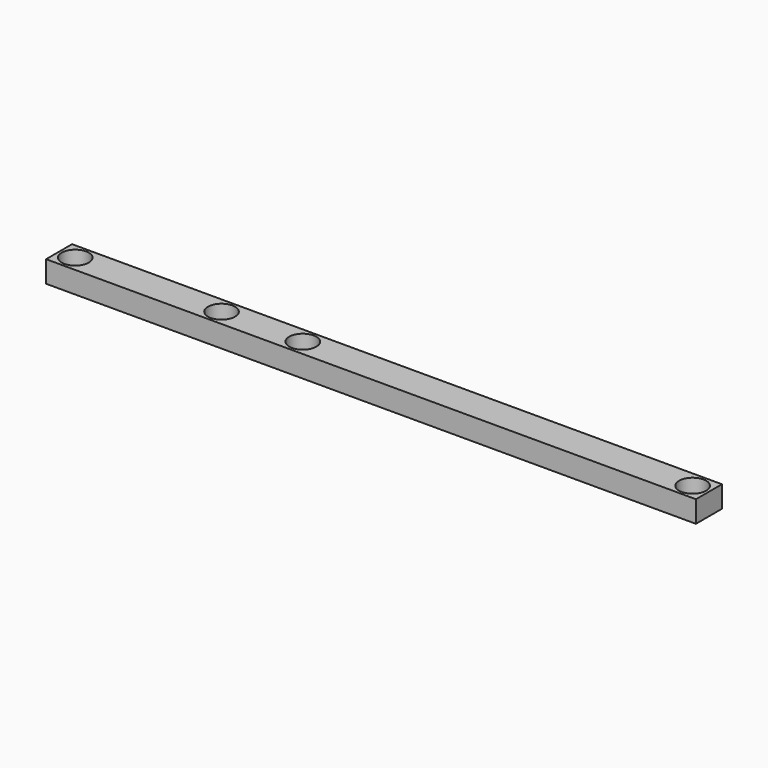
from build123d import *

# Parameters (mm, degrees)
F0_W     = 152.4
F0_H     = 7.62
F0_R     = 3.175
F1_DEPTH = 5.08
F2_DEPTH = 5.08


with BuildPart() as f1:
    # F0 (on Top) → F1 (new body)
    with BuildSketch(Plane.XY):
        Rectangle(F0_W, F0_H)
        with Locations((-72.411076, 0)):
            Circle(F0_R, mode=Mode.SUBTRACT)
        with Locations((-38.1, 0)):
            Circle(F0_R, mode=Mode.SUBTRACT)
        with Locations((-19.05, 0)):
            Circle(F0_R, mode=Mode.SUBTRACT)
        with Locations((72.386882, 0)):
            Circle(F0_R, mode=Mode.SUBTRACT)
    extrude(amount=F1_DEPTH)


with BuildPart() as f2:
    # F0 (on Top) → F2 (new body)
    with BuildSketch(Plane.XY):
        Rectangle(F0_W, F0_H)
        with Locations((-72.411076, 0)):
            Circle(F0_R, mode=Mode.SUBTRACT)
        with Locations((-38.1, 0)):
            Circle(F0_R, mode=Mode.SUBTRACT)
        with Locations((-19.05, 0)):
            Circle(F0_R, mode=Mode.SUBTRACT)
        with Locations((72.386882, 0)):
            Circle(F0_R, mode=Mode.SUBTRACT)
    extrude(amount=F2_DEPTH)


solid = f2.part
